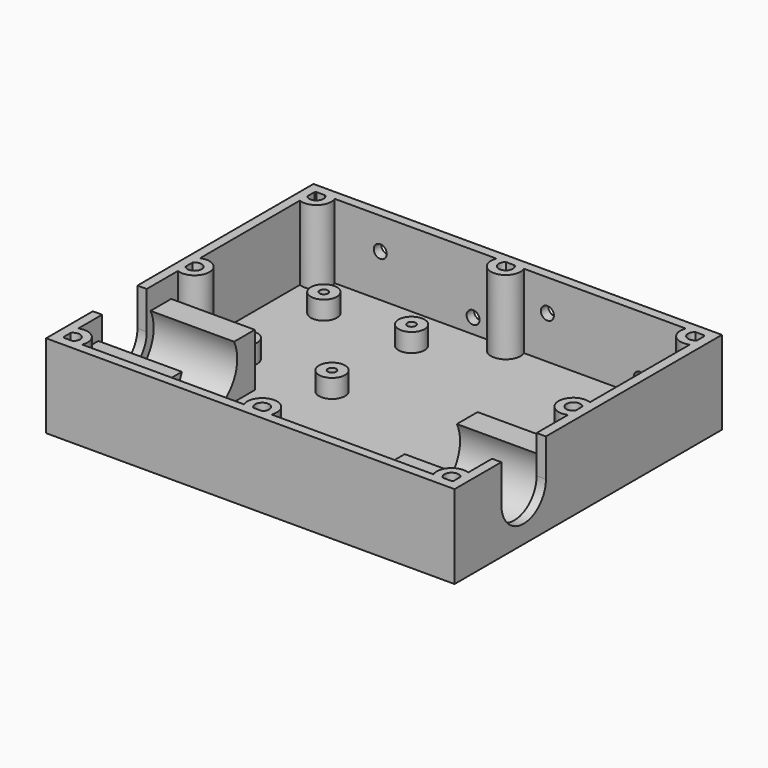
from build123d import *

# Parameters (mm, degrees)
SKETCH_W        = 139.7
SKETCH_H        = 114.3
SKETCH_W_2      = 133.35
SKETCH_H_2      = 107.95
PAD_DEPTH       = 25.4
SKETCH001_W     = 139.7
SKETCH001_H     = 114.3
PAD001_DEPTH    = 3.175
SKETCH002_R     = 5.08
SKETCH002_R_2   = 2.413
PAD002_DEPTH    = 25.4
SKETCH003_W     = 31.75
SKETCH003_H     = 40
PAD003_DEPTH    = 24.5
POCKET_DEPTH    = 139.701
SKETCH007_R     = 4.445
SKETCH007_R_2   = 1.425
PAD006_DEPTH    = 6.35
SKETCH014_R     = 2.2225
POCKET004_DEPTH = 3.176
SKETCH015_W     = 133.35
SKETCH015_H     = 41.402
POCKET005_DEPTH = 6.35
PAD010_DEPTH    = 3.175
PAD011_DEPTH    = 3.175


with BuildPart() as part:
    # Sketch → Pad (new body)
    with BuildSketch(Plane.XY):
        Rectangle(SKETCH_W, SKETCH_H)
        Rectangle(SKETCH_W_2, SKETCH_H_2, mode=Mode.SUBTRACT)
    extrude(amount=PAD_DEPTH)

    # Sketch001 (on Face9 of Pad) → Pad001 (join)
    with BuildSketch(Plane(origin=(0, 0, 0), x_dir=(1, 0, 0), z_dir=(0, 0, -1))):
        Rectangle(SKETCH001_W, SKETCH001_H)
    extrude(amount=PAD001_DEPTH)

    # Sketch002 (on Face15 of Pad001) → Pad002 (join)
    with BuildSketch(Plane.XY):
        with Locations((-64.77, 52.07)):
            Circle(SKETCH002_R)
        with Locations((-64.77, 52.07)):
            Circle(SKETCH002_R_2, mode=Mode.SUBTRACT)
        with Locations((0, 52.07)):
            Circle(SKETCH002_R)
        with Locations((0, 52.07)):
            Circle(SKETCH002_R_2, mode=Mode.SUBTRACT)
        with Locations((64.77, 52.07)):
            Circle(SKETCH002_R)
        with Locations((64.77, 52.07)):
            Circle(SKETCH002_R_2, mode=Mode.SUBTRACT)
        with Locations((64.77, 0)):
            Circle(SKETCH002_R)
        with Locations((64.77, 0)):
            Circle(SKETCH002_R_2, mode=Mode.SUBTRACT)
        with Locations((64.77, -52.07)):
            Circle(SKETCH002_R)
        with Locations((64.77, -52.07)):
            Circle(SKETCH002_R_2, mode=Mode.SUBTRACT)
        with Locations((0, -52.07)):
            Circle(SKETCH002_R)
        with Locations((0, -52.07)):
            Circle(SKETCH002_R_2, mode=Mode.SUBTRACT)
        with Locations((-64.77, -52.07)):
            Circle(SKETCH002_R)
        with Locations((-64.77, -52.07)):
            Circle(SKETCH002_R_2, mode=Mode.SUBTRACT)
        with Locations((-64.77, 0)):
            Circle(SKETCH002_R)
        with Locations((-64.77, 0)):
            Circle(SKETCH002_R_2, mode=Mode.SUBTRACT)
    extrude(amount=PAD002_DEPTH)

    # Sketch003 (on Face43 of Pad002) → Pad003 (join)
    with BuildSketch(Plane.XY):
        with Locations((-53.975, -27.62)):
            Rectangle(SKETCH003_W, SKETCH003_H)
        with Locations((53.975, -27.62)):
            Rectangle(SKETCH003_W, SKETCH003_H)
    extrude(amount=PAD003_DEPTH)

    # Sketch004 (on Face17 of Pad003) → Pocket (cut, through all)
    with BuildSketch(Plane(origin=(-69.85, 0, 0), x_dir=(0, -1, 0), z_dir=(-1, 0, 0))):
        with BuildLine():
            ThreePointArc((18.095, 20.593034), (27.62, 0), (37.145, 20.593034))
            Line((37.145, 26.943034), (37.145, 20.593034))
            Line((18.095, 26.943034), (37.145, 26.943034))
            Line((18.095, 20.593034), (18.095, 26.943034))
        make_face()
    extrude(amount=-POCKET_DEPTH, mode=Mode.SUBTRACT)

    # Sketch007 → Pad006 (join)
    with BuildSketch(Plane(origin=(-34.29, 25.4, 0), x_dir=(1, 0, 0), z_dir=(0, 0, 1))):
        with Locations((12.765624, 13.285831)):
            Circle(SKETCH007_R)
        with Locations((12.765624, 13.285831)):
            Circle(SKETCH007_R_2, mode=Mode.SUBTRACT)
        with Locations((-17.234376, 13.285831)):
            Circle(SKETCH007_R)
        with Locations((-17.234376, 13.285831)):
            Circle(SKETCH007_R_2, mode=Mode.SUBTRACT)
        with Locations((-17.234376, -20.714169)):
            Circle(SKETCH007_R)
        with Locations((-17.234376, -20.714169)):
            Circle(SKETCH007_R_2, mode=Mode.SUBTRACT)
        with Locations((12.765624, -20.714169)):
            Circle(SKETCH007_R)
        with Locations((12.765624, -20.714169)):
            Circle(SKETCH007_R_2, mode=Mode.SUBTRACT)
    extrude(amount=PAD006_DEPTH)

    # Sketch014 (on Face30 of Pad006) → Pocket004 (cut, through all)
    with BuildSketch(Plane.XZ.offset(-53.975)):
        with Locations((-44.45, 14.605)):
            Circle(SKETCH014_R)
        with Locations((-12.7, 5.08)):
            Circle(SKETCH014_R)
        with Locations((12.7, 14.605)):
            Circle(SKETCH014_R)
        with Locations((44.45, 5.08)):
            Circle(SKETCH014_R)
    extrude(amount=-POCKET004_DEPTH, mode=Mode.SUBTRACT)

    # Sketch015 (on Face84 of Pocket004) → Pocket005 (cut)
    with BuildSketch(Plane.XY.offset(24.5)):
        with Locations((0, -27.051)):
            Rectangle(SKETCH015_W, SKETCH015_H)
    extrude(amount=-POCKET005_DEPTH, mode=Mode.SUBTRACT)

    # Sketch016 (on Face15 of Pocket005) → Pad010 (join)
    with BuildSketch(Plane(origin=(-69.85, 0, 0), x_dir=(0, -1, 0), z_dir=(-1, 0, 0))):
        with BuildLine():
            ThreePointArc((18.095, 12.499369), (27.62, 2.97434), (37.145, 12.499369))
            Line((37.145, 20.8996), (37.145, 12.499369))
            ThreePointArc((18.095, 20.8996), (27.62, -0.20066), (37.145, 20.8996))
            Line((18.095, 20.8996), (18.095, 12.499369))
        make_face()
    extrude(amount=-PAD010_DEPTH)

    # Sketch019 (on Face25 of Pocket005) → Pad011 (join)
    with BuildSketch(Plane.YZ.offset(69.85)):
        with BuildLine():
            ThreePointArc((-37.145, 20.8996), (-27.62, -0.20066), (-18.095, 20.8996))
            Line((-18.095, 20.8996), (-18.095, 12.49934))
            ThreePointArc((-37.145, 12.499312), (-27.619986, 2.97434), (-18.095, 12.49934))
            Line((-37.145, 20.8996), (-37.145, 12.499312))
        make_face()
    extrude(amount=-PAD011_DEPTH)


solid = part.part
